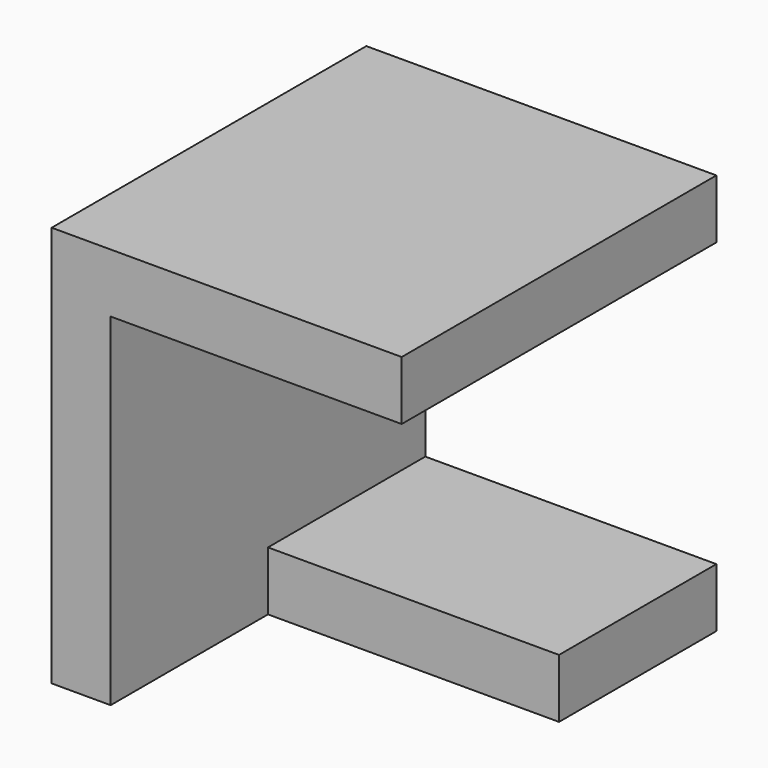
from build123d import *

# Parameters (mm, degrees)
F1_DEPTH = 100
F2_W     = 50
F2_H     = 15
F3_DEPTH = 74


with BuildPart() as f1:
    # F0 (on Front) → F1 (new body)
    with BuildSketch(Plane.XZ):
        Polygon((-15, 0), (0, 0), (0, 87), (74, 87), (74, 102), (-15, 102), align=None)
    extrude(amount=F1_DEPTH)

    # F2 (on face) → F3 (join)
    with BuildSketch(Plane.YZ):
        with Locations((-25, 7.5)):
            Rectangle(F2_W, F2_H)
    extrude(amount=F3_DEPTH)


solid = f1.part
